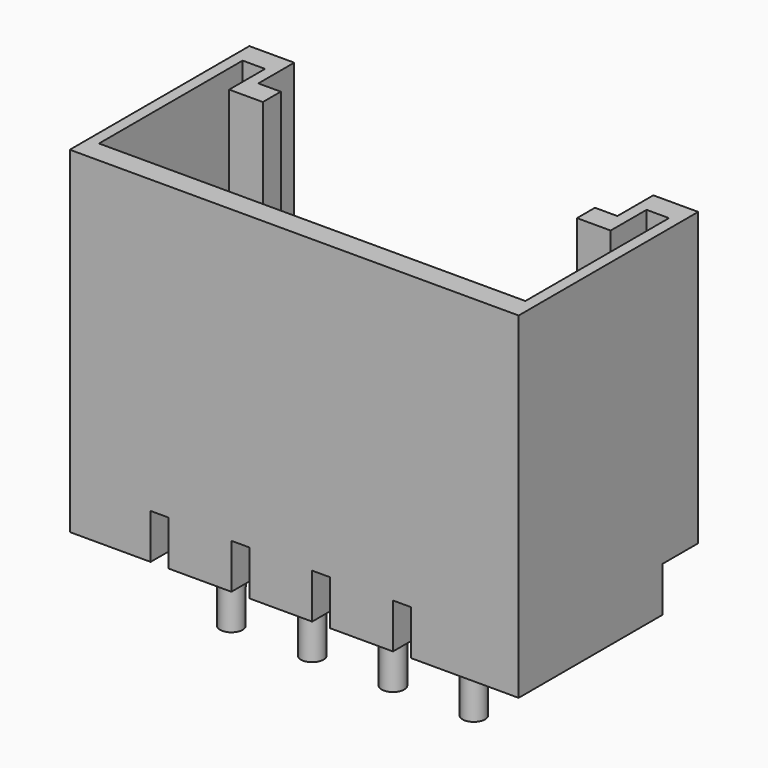
from build123d import *

# Parameters (mm, degrees)
CYLINDER_R     = 0.25
CYLINDER_DEPTH = 6
ARRAY_X_COUNT  = 4
ARRAY_X_PITCH  = 1.8
BOX011_W       = 7
BOX011_H       = 7
BOX011_DEPTH   = 3
BOX010_W       = 0.5
BOX010_H       = 4
BOX010_DEPTH   = 10
BOX009_W       = 0.5
BOX009_H       = 4
BOX009_DEPTH   = 10
BOX008_W       = 8
BOX008_H       = 3
BOX008_DEPTH   = 10
BOX007_W       = 9
BOX007_H       = 3
BOX007_DEPTH   = 10
BOX006_W       = 0.4
BOX006_H       = 10
BOX006_DEPTH   = 1
BOX005_W       = 0.4
BOX005_H       = 10
BOX005_DEPTH   = 1
BOX004_W       = 0.4
BOX004_H       = 10
BOX004_DEPTH   = 1
BOX003_W       = 0.4
BOX003_H       = 10
BOX003_DEPTH   = 1
BOX002_W       = 10
BOX002_H       = 5
BOX002_DEPTH   = 6.5
BOX001_W       = 10
BOX001_H       = 4
BOX001_DEPTH   = 1


with BuildPart() as array:
    # Cylinder → Cylinder (new body)
    with BuildSketch(Plane(origin=(2, 2, -2), x_dir=(1, 0, 0), z_dir=(0, 0, 1))):
        Circle(CYLINDER_R)
    extrude(amount=CYLINDER_DEPTH)

    # Array X: Array ×4


with BuildPart() as array_1:
    add(array.part)
    with Locations(*[(i * ARRAY_X_PITCH, 0, 0) for i in range(1, ARRAY_X_COUNT)]):
        add(array.part)


with BuildPart() as cubo011:
    # Box011 → Box011 (new body)
    with BuildSketch(Plane(origin=(1.5, 3, 4.5), x_dir=(1, 0, 0), z_dir=(0, 0, 1))):
        with Locations((3.5, 3.5)):
            Rectangle(BOX011_W, BOX011_H)
    extrude(amount=BOX011_DEPTH)


with BuildPart() as cubo010:
    # Box010 → Box010 (new body)
    with BuildSketch(Plane(origin=(9.25, 0.5, 1.1), x_dir=(1, 0, 0), z_dir=(0, 0, 1))):
        with Locations((0.25, 2)):
            Rectangle(BOX010_W, BOX010_H)
    extrude(amount=BOX010_DEPTH)


with BuildPart() as cubo009:
    # Box009 → Box009 (new body)
    with BuildSketch(Plane(origin=(0.25, 0.5, 1.1), x_dir=(1, 0, 0), z_dir=(0, 0, 1))):
        with Locations((0.25, 2)):
            Rectangle(BOX009_W, BOX009_H)
    extrude(amount=BOX009_DEPTH)


with BuildPart() as cubo008:
    # Box008 → Box008 (new body)
    with BuildSketch(Plane(origin=(1, 4, 0), x_dir=(1, 0, 0), z_dir=(0, 0, 1))):
        with Locations((4, 1.5)):
            Rectangle(BOX008_W, BOX008_H)
    extrude(amount=BOX008_DEPTH)


with BuildPart() as cubo007:
    # Box007 → Box007 (new body)
    with BuildSketch(Plane(origin=(0.5, 0.5, 1.1), x_dir=(1, 0, 0), z_dir=(0, 0, 1))):
        with Locations((4.5, 1.5)):
            Rectangle(BOX007_W, BOX007_H)
    extrude(amount=BOX007_DEPTH)


with BuildPart() as cubo006:
    # Box006 → Box006 (new body)
    with BuildSketch(Plane(origin=(7.2, -3, 0), x_dir=(1, 0, 0), z_dir=(0, 0, 1))):
        with Locations((0.2, 5)):
            Rectangle(BOX006_W, BOX006_H)
    extrude(amount=BOX006_DEPTH)


with BuildPart() as cubo005:
    # Box005 → Box005 (new body)
    with BuildSketch(Plane(origin=(5.4, -3, 0), x_dir=(1, 0, 0), z_dir=(0, 0, 1))):
        with Locations((0.2, 5)):
            Rectangle(BOX005_W, BOX005_H)
    extrude(amount=BOX005_DEPTH)


with BuildPart() as cubo004:
    # Box004 → Box004 (new body)
    with BuildSketch(Plane(origin=(3.6, -3, 0), x_dir=(1, 0, 0), z_dir=(0, 0, 1))):
        with Locations((0.2, 5)):
            Rectangle(BOX004_W, BOX004_H)
    extrude(amount=BOX004_DEPTH)


with BuildPart() as cubo003:
    # Box003 → Box003 (new body)
    with BuildSketch(Plane(origin=(1.8, -3, 0), x_dir=(1, 0, 0), z_dir=(0, 0, 1))):
        with Locations((0.2, 5)):
            Rectangle(BOX003_W, BOX003_H)
    extrude(amount=BOX003_DEPTH)


with BuildPart() as cubo002:
    # Box002 → Box002 (new body)
    with BuildSketch(Plane.XY.offset(1)):
        with Locations((5, 2.5)):
            Rectangle(BOX002_W, BOX002_H)
    extrude(amount=BOX002_DEPTH)


with BuildPart() as conector:
    # Box001 → Box001 (new body)
    with BuildSketch(Plane.XY):
        with Locations((5, 2)):
            Rectangle(BOX001_W, BOX001_H)
    extrude(amount=BOX001_DEPTH)

    # Fusion: union Cubo002
    add(cubo002.part)

    # Cut: cut Cubo003
    add(cubo003.part, mode=Mode.SUBTRACT)

    # Cut001: cut Cubo004
    add(cubo004.part, mode=Mode.SUBTRACT)

    # Cut002: cut Cubo005
    add(cubo005.part, mode=Mode.SUBTRACT)

    # Cut003: cut Cubo006
    add(cubo006.part, mode=Mode.SUBTRACT)

    # Cut004: cut Cubo007
    add(cubo007.part, mode=Mode.SUBTRACT)

    # Cut005: cut Cubo008
    add(cubo008.part, mode=Mode.SUBTRACT)

    # Cut006: cut Cubo009
    add(cubo009.part, mode=Mode.SUBTRACT)

    # Cut007: cut Cubo010
    add(cubo010.part, mode=Mode.SUBTRACT)

    # Cut008: cut Cubo011
    add(cubo011.part, mode=Mode.SUBTRACT)

    # Fusion001: union Array
    add(array_1.part)


with BuildPart() as conector_1:
    # Fusion001 placement: moved
    add(conector.part.moved(Location((5, 13.5, 1.5))))


solid = conector_1.part
